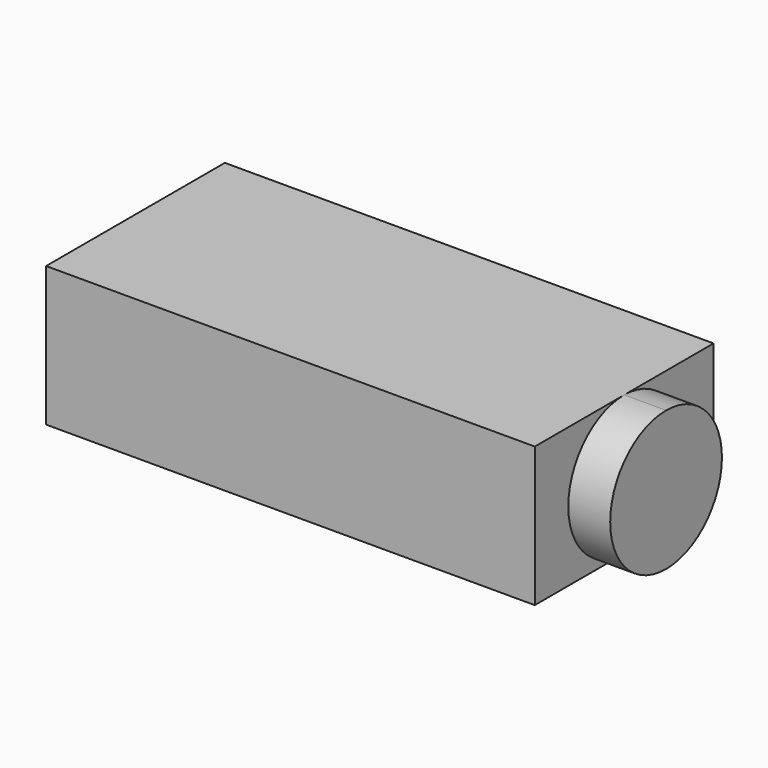
from build123d import *

# Parameters (mm, degrees)
F0_W     = 17.5
F0_H     = 5
F1_DEPTH = 4
F3_DEPTH = 1.5


with BuildPart() as f1:
    # F0 (on Front) → F1 (new body, symmetric)
    with BuildSketch(Plane.XZ):
        with Locations((-10.25, 2.5)):
            Rectangle(F0_W, F0_H)
    extrude(amount=F1_DEPTH, both=True)

    # F2 (on face) → F3 (join)
    with BuildSketch(Plane.YZ.offset(-1.5)):
        with BuildLine():
            ThreePointArc((0, 0), (1.767767, 0.732233), (2.5, 2.5))
            ThreePointArc((2.5, 2.5), (1.767767, 4.267767), (0, 5))
            ThreePointArc((0, 5), (-2.5, 2.5), (0, 0))
        make_face()
    extrude(amount=F3_DEPTH)


solid = f1.part
